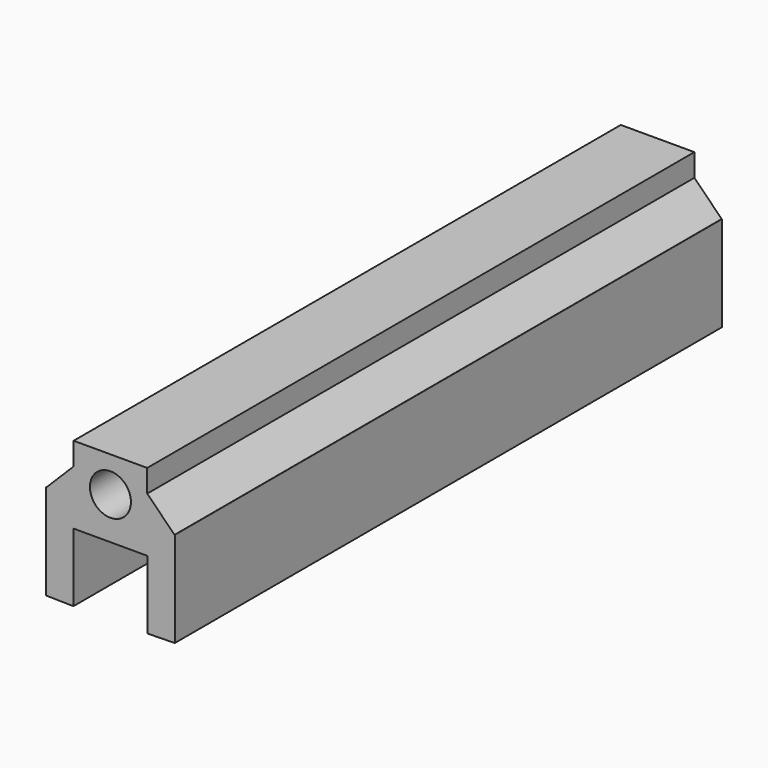
from build123d import *

# Parameters (mm, degrees)
F0_W     = 5.37864
F0_H     = 3.654586
F1_DEPTH = 50
F3_D     = 3
F4_SIZE  = 2


with BuildPart() as f1:
    # F0 (on Front) → F1 (new body)
    with BuildSketch(Plane.XZ):
        Polygon((-2.704546, -5), (-2.704546, 0), (2.704546, 0), (2.704546, -5), (4.704546, -4.963173), (4.704546, 1.118637), (4.704546, 2), (4.361257, 2), (2.68932, 2), (-2.68932, 2), (-4.704546, 2), (-4.704546, 1.118637), (-4.704546, -4.963173), align=None)
        with Locations((0, 3.827293)):
            Rectangle(F0_W, F0_H)
    extrude(amount=-F1_DEPTH)

    # F3 (through all)
    with Locations(Plane.XZ):
        with Locations((0, 3.068567)):
            Hole(F3_D / 2)

    # F4
    f4_edges = [f1.edges().sort_by_distance(p)[0] for p in [
        (2.68932, 25, 2),
        (-2.68932, 25, 2),
    ]]
    chamfer(f4_edges, length=F4_SIZE)


solid = f1.part
